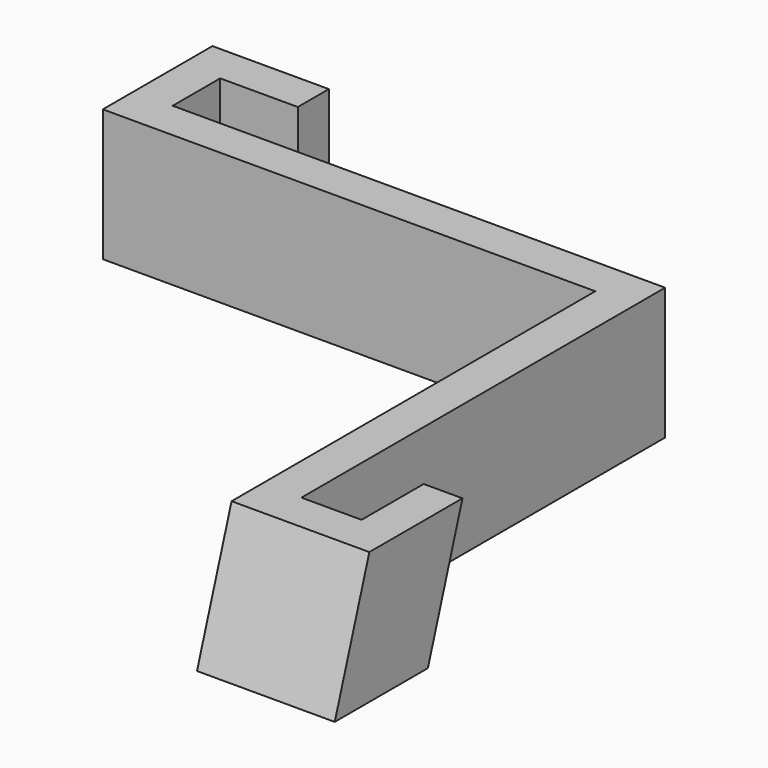
from build123d import *

# Parameters (mm, degrees)
F1_DEPTH = 17
F3_DEPTH = 7.75
F5_DEPTH = 5
F7_DEPTH = 25


with BuildPart() as f1:
    # F0 (on Top) → F1 (new body)
    with BuildSketch(Plane.XY):
        Polygon((0, -64.15), (0, 0), (-63.45, 0), (-63.45, 7.65), (-53.45, 7.65), (-53.45, 12.65), (-68.45, 12.65), (-68.45, -5), (-5, -5), (-5, -69.15), (12.75, -69.15), (12.75, -54.15), (7.75, -54.15), (7.75, -64.15), align=None)
    extrude(amount=F1_DEPTH)

    # F2 (on face) → F3 (join)
    with BuildSketch(Plane.YZ):
        Polygon((-58.58, 17), (-64.15, 17), (-64.15, 0), align=None)
    extrude(amount=F3_DEPTH)

    # F4 (on face) → F5 (join)
    with BuildSketch(Plane.YZ.offset(12.75)):
        Polygon((-48.58, 17), (-54.15, 17), (-54.15, 0), align=None)
    extrude(amount=-F5_DEPTH)

    # F6 (on face) → F7 (cut)
    with BuildSketch(Plane.YZ.offset(12.75)):
        Polygon((-63.58, 17), (-69.15, 17), (-69.15, 0), align=None)
    extrude(amount=-F7_DEPTH, mode=Mode.SUBTRACT)


solid = f1.part
